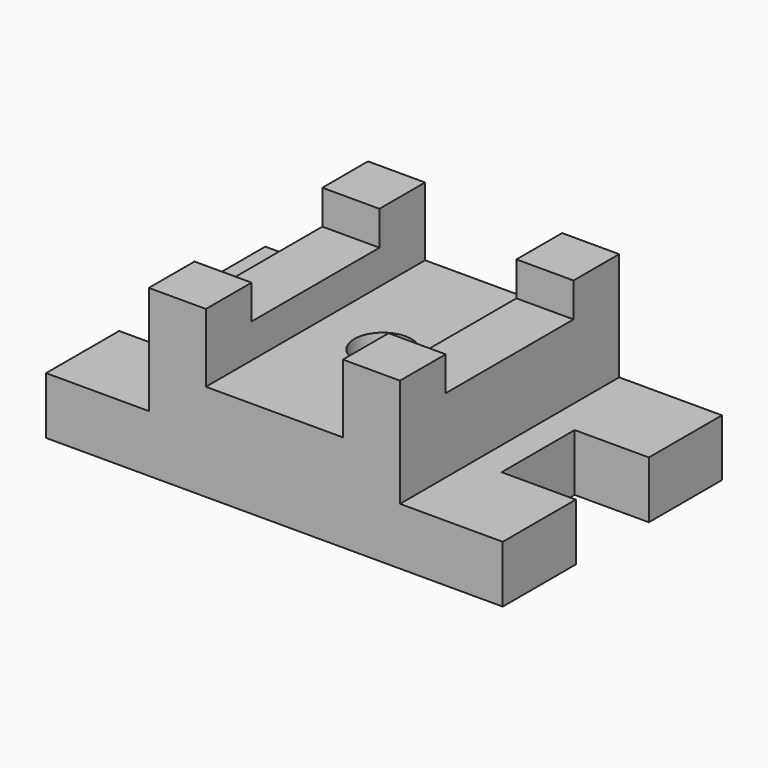
from build123d import *

# Parameters (mm, degrees)
F0_R     = 15.875
F1_DEPTH = 53.975
F0_W     = 31.75
F0_H     = 31.75
F2_DEPTH = 92.075
F0_H_2   = 88.9
F3_DEPTH = 73.025
F4_DEPTH = 31.75


with BuildPart() as f1:
    # F0 (on Top) → F1 (new body)
    with BuildSketch(Plane.XY):
        Polygon((38.1, 76.959355), (0, 76.959355), (-38.1, 76.959355), (-38.1, 45.209355), (-38.1, -43.690645), (-38.1, -75.440645), (0, -75.440645), (38.1, -75.440645), (38.1, -43.690645), (38.1, 45.209355), align=None)
        Circle(F0_R, mode=Mode.SUBTRACT)
    extrude(amount=F1_DEPTH)

    # F0 (on Top) → F2 (join)
    with BuildSketch(Plane.XY):
        with Locations((-53.975, 61.084355)):
            Rectangle(F0_W, F0_H)
        with Locations((-53.975, -59.565645)):
            Rectangle(F0_W, F0_H)
        with Locations((53.975, 61.084355)):
            Rectangle(F0_W, F0_H)
        with Locations((53.975, -59.565645)):
            Rectangle(F0_W, F0_H)
    extrude(amount=F2_DEPTH)

    # F0 (on Top) → F3 (join)
    with BuildSketch(Plane.XY):
        with Locations((-53.975, 0.759355)):
            Rectangle(F0_W, F0_H_2)
        with Locations((53.975, 0.759355)):
            Rectangle(F0_W, F0_H_2)
    extrude(amount=F3_DEPTH)

    # F0 (on Top) → F4 (join)
    with BuildSketch(Plane.XY):
        Polygon((-69.85, 45.209355), (-69.85, 76.959355), (-127, 76.959355), (-127, 26.159355), (-85.725, 26.159355), (-85.725, -24.640645), (-127, -24.640645), (-127, -75.440645), (-69.85, -75.440645), (-69.85, -43.690645), align=None)
        Polygon((127, 76.959355), (69.85, 76.959355), (69.85, 45.209355), (69.85, -43.690645), (69.85, -75.440645), (127, -75.440645), (127, -24.640645), (85.725, -24.640645), (85.725, 26.159355), (127, 26.159355), align=None)
    extrude(amount=F4_DEPTH)


solid = f1.part
